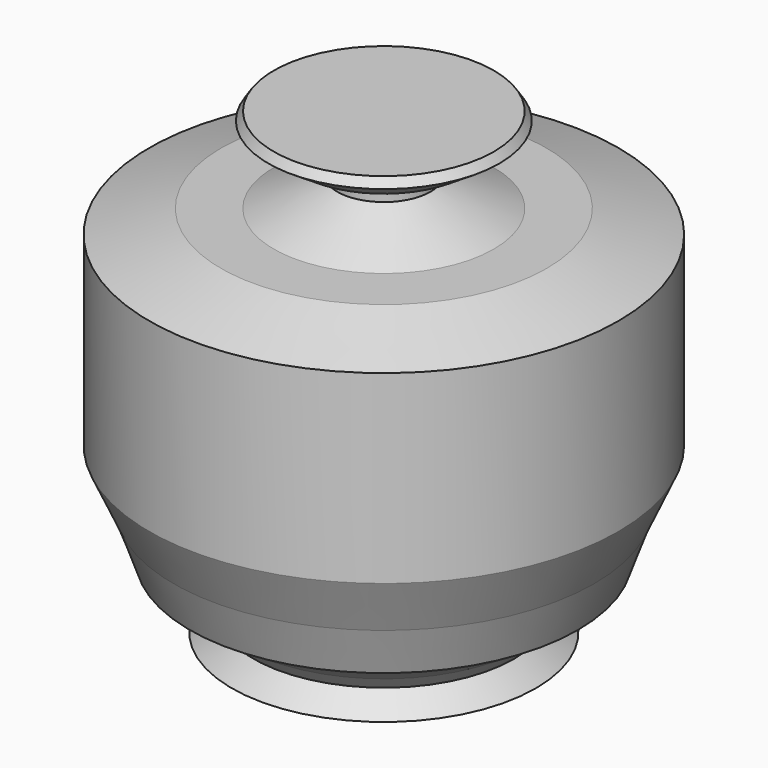
from build123d import *


with BuildPart() as f1:
    # F0 (on Front) → F1 (revolve)
    with BuildSketch(Plane.XZ):
        Polygon((0, 50.370862), (0, -41.611038), (30.496681, -41.611038), (26.159372, -37.815891), (28.66148, -34.95634), (38.900219, -28.599115), (42.153195, -19.382339), (47.032669, -8.53907), (47.032669, 11.792055), (47.032669, 28.599119), (32.665335, 33.20751), (22.093145, 33.20751), (9.352308, 39.171305), (9.352308, 44.592939), (16.942596, 44.592939), (23.17748, 48.659164), (22.061157, 50.370862), (9.623392, 50.370862), align=None)
    revolve(axis=Axis((0, 0, -2.304193), (0, 0, -1)))


solid = f1.part
